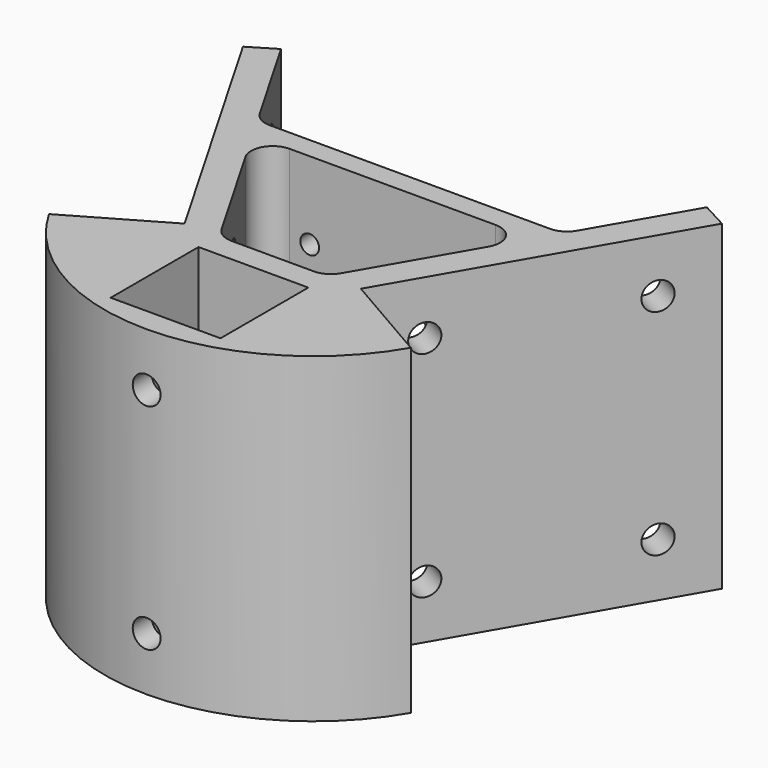
from build123d import *

# Parameters (mm, degrees)
F0_W     = 20.5
F0_H     = 20.5
F1_DEPTH = 60
F2_R     = 1.75
F2_R_2   = 11.15
F3_DEPTH = 4
F4_R     = 2.6
F5_DEPTH = 5.6
F6_R     = 2.6
F7_DEPTH = 5.6
F8_R     = 2.6
F9_DEPTH = 4.501


with BuildPart() as f1:
    # F0 (on Top) → F1 (new body)
    with BuildSketch(Plane.XY):
        with BuildLine():
            Line((-16.4544826719, -9.5), (-33.7749907476, -19.5))
            ThreePointArc((-33.7749907476, -19.5), (0, -39), (33.7749907476, -19.5))
            Line((33.7749907476, -19.5), (16.4544826719, -9.5))
            Line((16.4544826719, -9.5), (44.7044826719, 39.4304353138))
            Line((44.7044826719, 39.4304353138), (39.7695460128, 42.0828742882))
            Line((39.7695460128, 42.0828742882), (29.6180688094, 24.5))
            ThreePointArc((29.6180688094, 24.5), (28.1539671943, 23.0358983849), (26.1539671943, 22.5))
            Line((26.1539671943, 22.5), (-26.1539671943, 22.5))
            ThreePointArc((-26.1539671943, 22.5), (-28.1539671943, 23.0358983849), (-29.6180688094, 24.5))
            Line((-29.6180688094, 24.5), (-39.9072594683, 42.3214009899))
            Line((-39.9072594683, 42.3214009899), (-44.7044826719, 39.4304353138))
            Line((-44.7044826719, 39.4304353138), (-16.4544826719, -9.5))
        make_face()
        with Locations((0, -24.25)):
            Rectangle(F0_W, F0_H, mode=Mode.SUBTRACT)
        with BuildLine():
            Line((-11.1428601954, -7.5), (-22.6898655792, 12.5))
            ThreePointArc((-22.6898655792, 12.5), (-22.6898655792, 16.5), (-19.225763964, 18.5))
            Line((-19.225763964, 18.5), (19.225763964, 18.5))
            ThreePointArc((19.225763964, 18.5), (22.6898655792, 16.5), (22.6898655792, 12.5))
            Line((22.6898655792, 12.5), (11.1428601954, -7.5))
            ThreePointArc((11.1428601954, -7.5), (9.6787585802, -8.9641016151), (7.6787585802, -9.5))
            Line((7.6787585802, -9.5), (-7.6787585802, -9.5))
            ThreePointArc((-7.6787585802, -9.5), (-9.6787585802, -8.9641016151), (-11.1428601954, -7.5))
        make_face(mode=Mode.SUBTRACT)
    extrude(amount=F1_DEPTH)

    # F2 (on face) → F3 (cut)
    with BuildSketch(Plane(origin=(0, 22.5, 0), x_dir=(-1, 0, 0), z_dir=(0, 1, 0))):
        with Locations((-15.5, 14.5)):
            Circle(F2_R)
        with Locations((-15.5, 45.5)):
            Circle(F2_R)
        with Locations((15.5, 45.5)):
            Circle(F2_R)
        with Locations((15.5, 14.5)):
            Circle(F2_R)
        with Locations((0, 30)):
            Circle(F2_R_2)
    extrude(amount=-F3_DEPTH, mode=Mode.SUBTRACT)

    # F4 (on face) → F5 (cut)
    with BuildSketch(Plane(origin=(-16.4544826719, -9.5, 0), x_dir=(0.5, -0.8660254038, 0), z_dir=(-0.8660254038, -0.5, 0))):
        with Locations((-46.5, 50)):
            Circle(F4_R)
        with Locations((-10, 50)):
            Circle(F4_R)
        with Locations((-10, 10)):
            Circle(F4_R)
        with Locations((-46.5, 10)):
            Circle(F4_R)
    extrude(amount=-F5_DEPTH, mode=Mode.SUBTRACT)

    # F6 (on face) → F7 (cut)
    with BuildSketch(Plane(origin=(16.4544826719, -9.5, 0), x_dir=(0.5, 0.8660254038, 0), z_dir=(0.8660254038, -0.5, 0))):
        with Locations((46.5, 50)):
            Circle(F6_R)
        with Locations((46.5, 10)):
            Circle(F6_R)
        with Locations((10, 10)):
            Circle(F6_R)
        with Locations((10, 50)):
            Circle(F6_R)
    extrude(amount=-F7_DEPTH, mode=Mode.SUBTRACT)

    # F8 (on face) → F9 (cut, through all)
    with BuildSketch(Plane(origin=(0, -34.5, 0), x_dir=(-1, 0, 0), z_dir=(0, 1, 0))):
        with Locations((0, 50)):
            Circle(F8_R)
        with Locations((0, 10)):
            Circle(F8_R)
    extrude(amount=-F9_DEPTH, mode=Mode.SUBTRACT)


solid = f1.part
